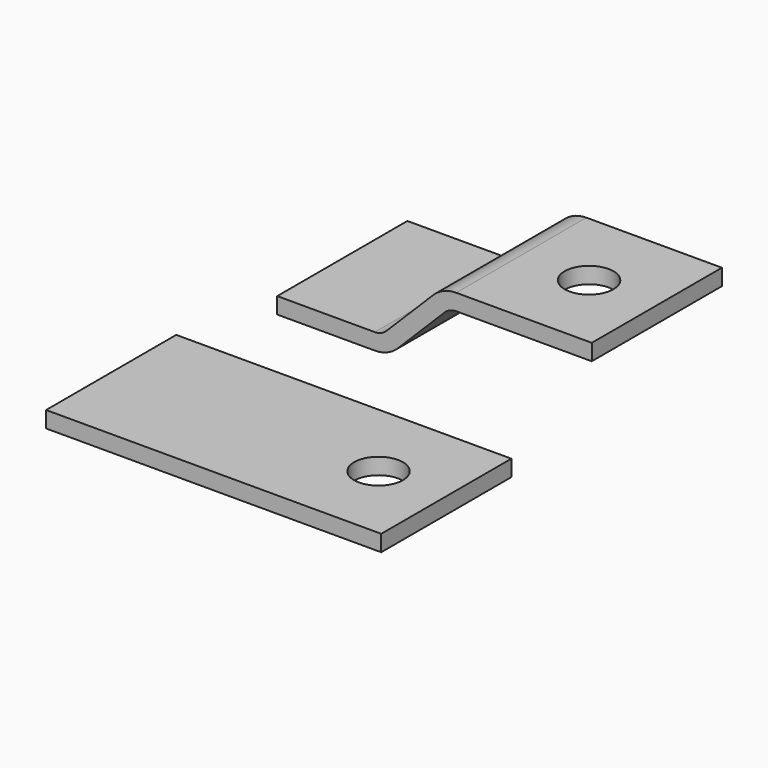
from build123d import *

# Parameters (mm, degrees)
F1_DEPTH = 60
F2_R     = 9
F3_DEPTH = 25
F4_W     = 123.6
F4_H     = 60
F4_R     = 9
F5_DEPTH = 6


with BuildPart() as f1:
    # F0 (on Front) → F1 (new body)
    with BuildSketch(Plane.XZ):
        with BuildLine():
            Line((0, 0), (36, 0))
            ThreePointArc((36, 0), (40.592201, 0.913446), (44.485281, 3.514719))
            Line((44.485281, 3.514719), (61.757359, 20.786797))
            ThreePointArc((61.757359, 20.786797), (63.703899, 22.087433), (66, 22.544156))
            Line((66, 22.544156), (116, 22.544156))
            Line((116, 22.544156), (116, 28.544156))
            Line((116, 28.544156), (66, 28.544156))
            ThreePointArc((66, 28.544156), (61.407799, 27.63071), (57.514719, 25.029437))
            Line((57.514719, 25.029437), (40.242641, 7.757359))
            ThreePointArc((40.242641, 7.757359), (38.296101, 6.456723), (36, 6))
            Line((36, 6), (0, 6))
            Line((0, 6), (0, 0))
        make_face()
    extrude(amount=-F1_DEPTH)

    # F2 (on face) → F3 (cut)
    with BuildSketch(Plane.XY.offset(28.544156)):
        with Locations((91, 30)):
            Circle(F2_R)
    extrude(amount=-F3_DEPTH, mode=Mode.SUBTRACT)


with BuildPart() as f5:
    # F4 (on Top) → F5 (new body)
    with BuildSketch(Plane.XY):
        with Locations((54.2, -67.065209)):
            Rectangle(F4_W, F4_H)
        with Locations((91, -67.065209)):
            Circle(F4_R, mode=Mode.SUBTRACT)
    extrude(amount=F5_DEPTH)


solid = Compound([f1.part, f5.part])
